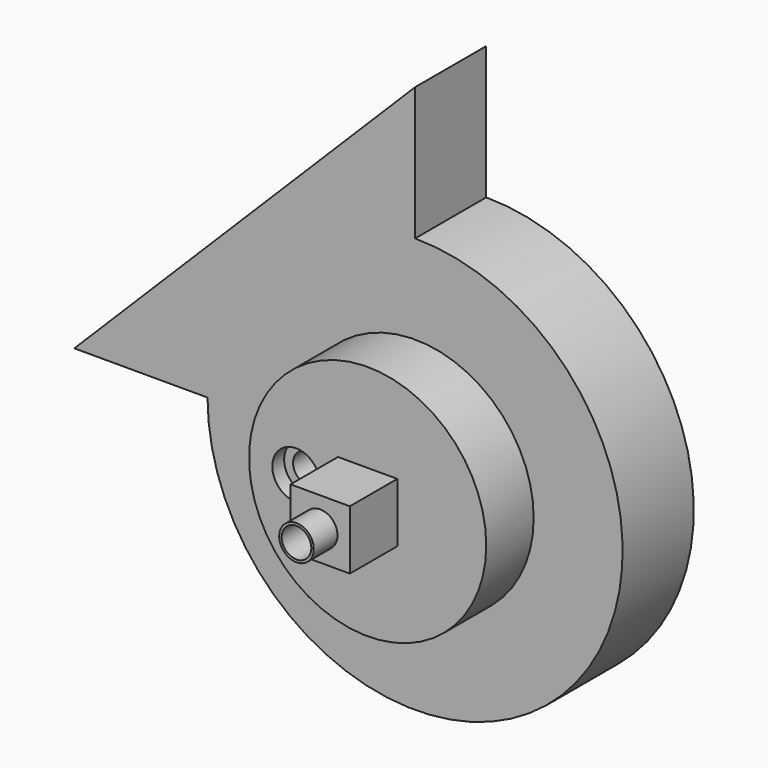
from build123d import *

# Parameters (mm, degrees)
F1_DEPTH        = 9.525
F2_R            = 25.4
F3_DEPTH        = 12.7
F4_W            = 12.7
F4_H            = 12.7
F5_DEPTH        = 12.7
F6_R            = 3.701609
F7_DEPTH        = 6.35
F9_D            = 6.35
F11_D           = 6.35
F11_CBORE_D     = 10.16
F11_CBORE_DEPTH = 3.175


with BuildPart() as f1:
    # F0 (on Front) → F1 (new body, symmetric)
    with BuildSketch(Plane.XZ):
        with BuildLine():
            Line((-72.97454, 0), (-44.45, 0))
            ThreePointArc((-44.45, 0), (31.430896, -31.430896), (0, 44.45))
            Line((0, 44.45), (0, 72.97454))
            Line((0, 72.97454), (-72.97454, 0))
        make_face()
    extrude(amount=F1_DEPTH, both=True)

    # F2 (on face) → F3 (join)
    with BuildSketch(Plane.XZ.offset(9.525)):
        Circle(F2_R)
    extrude(amount=F3_DEPTH)

    # F4 (on face) → F5 (join)
    with BuildSketch(Plane.XZ.offset(22.225)):
        Rectangle(F4_W, F4_H)
    extrude(amount=F5_DEPTH)

    # F6 (on face) → F7 (join)
    with BuildSketch(Plane.XZ.offset(34.925)):
        Circle(F6_R)
    extrude(amount=F7_DEPTH)

    # F9 (through all)
    with Locations(Plane.XZ.offset(41.275)):
        with Locations((0, 0)):
            Hole(F9_D / 2)

    # F11 (through all)
    with Locations(Plane.XZ.offset(22.225)):
        with Locations((-15.339203, 0)):
            CounterBoreHole(F11_D / 2, F11_CBORE_D / 2, F11_CBORE_DEPTH)


solid = f1.part
